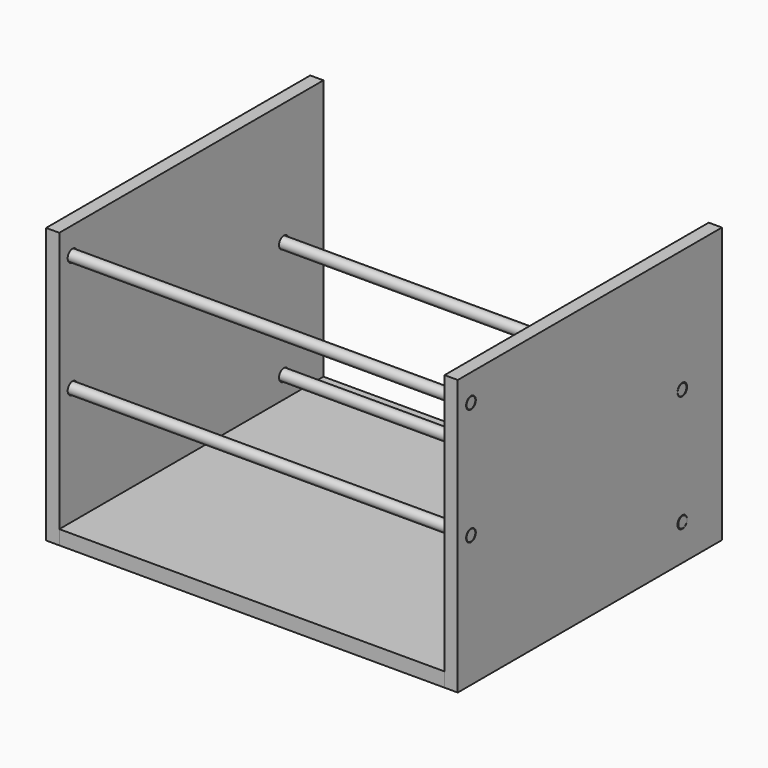
from build123d import *

# Parameters (mm, degrees)
F0_W     = 350
F0_H     = 300
F1_DEPTH = 13
F2_W     = 300
F2_H     = 250
F3_DEPTH = 12
F4_R     = 5.5
F5_DEPTH = 362.001
F7_R     = 5
F8_DEPTH = 187


with BuildPart() as f1:
    # F0 (on Top) → F1 (new body)
    with BuildSketch(Plane.XY):
        Rectangle(F0_W, F0_H)
    extrude(amount=-F1_DEPTH)


with BuildPart() as f3:
    # F2 (on face) → F3 (new body)
    with BuildSketch(Plane.YZ.offset(175)):
        with Locations((0, 112)):
            Rectangle(F2_W, F2_H)
    extrude(amount=F3_DEPTH)

    # F4 (on face) → F5 (cut, through all)
    with BuildSketch(Plane.YZ.offset(187)):
        with Locations((-135, 106.7)):
            Circle(F4_R)
        with Locations((-135, 212.7)):
            Circle(F4_R)
        with Locations((105, 125.7)):
            Circle(F4_R)
        with Locations((105, 19.7)):
            Circle(F4_R)
    extrude(amount=-F5_DEPTH, mode=Mode.SUBTRACT)


with BuildPart() as f6_1:
    # F6: copy of F3
    add(f3.part.moved(Location((-362, 0, 0))))


with BuildPart() as f8:
    # F7 (on Right) → F8 (new body, symmetric)
    with BuildSketch(Plane.YZ):
        with Locations((-135, 212.7)):
            Circle(F7_R)
    extrude(amount=F8_DEPTH, both=True)


with BuildPart() as f9_1:
    # F9: copy of F8
    add(f8.part.moved(Location((0, 0, -106))))


with BuildPart() as f10_1:
    # F10: copy of F8
    add(f8.part.moved(Location((0, 239.7, -87.1))))


with BuildPart() as f11_1:
    # F11: copy of F8
    add(f8.part.moved(Location((0, 240.4, -193.1))))


solid = Compound([f1.part, f3.part, f6_1.part, f8.part, f9_1.part, f10_1.part, f11_1.part])
